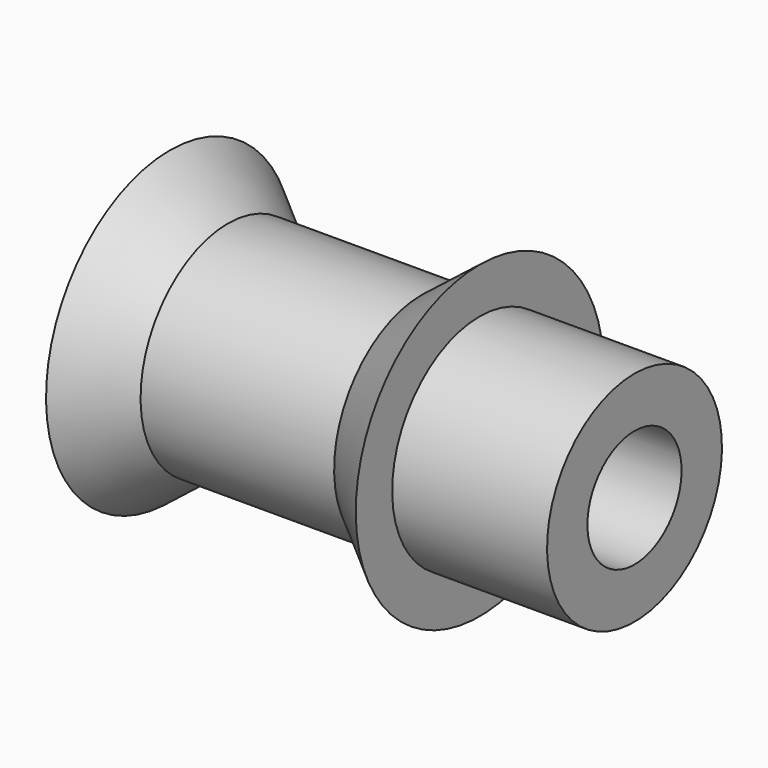
from build123d import *


with BuildPart() as f1:
    # F0 (on Front) → F1 (revolve)
    with BuildSketch(Plane.XZ):
        Polygon((-8.3786, 6.35), (-8.3786, 4.482285), (-5.99735, 4.482285), align=None)
        Polygon((-5.99735, 4.482285), (-8.3786, 4.482285), (-8.3786, 2.413), (10.6714, 2.413), (10.6714, 4.482285), (4.3214, 4.482285), (1.94015, 4.482285), align=None)
        Polygon((4.3214, 6.35), (1.94015, 4.482285), (4.3214, 4.482285), align=None)
    revolve(axis=Axis((0.768075, 0, 0), (1, 0, 0)))


solid = f1.part
